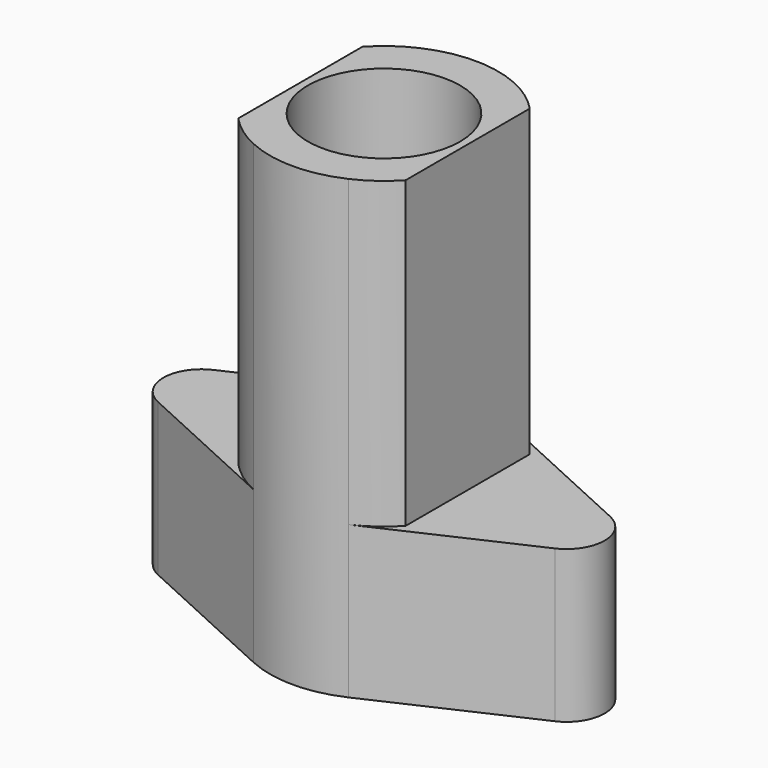
from build123d import *

# Parameters (mm, degrees)
F0_R     = 12.7
F1_DEPTH = 25.4
F2_R     = 12.7
F3_DEPTH = 50.8


with BuildPart() as f1:
    # F0 (on Top) → F1 (new body)
    with BuildSketch(Plane.XY):
        with BuildLine():
            Line((-33.125833, -5.772527), (-7.9375, -17.31758))
            ThreePointArc((-7.9375, -17.31758), (0, -19.05), (7.9375, -17.31758))
            Line((7.9375, -17.31758), (33.125833, -5.772527))
            ThreePointArc((33.125833, -5.772527), (36.83, 0), (33.125833, 5.772527))
            Line((33.125833, 5.772527), (7.9375, 17.31758))
            ThreePointArc((7.9375, 17.31758), (0, 19.05), (-7.9375, 17.31758))
            Line((-7.9375, 17.31758), (-33.125833, 5.772527))
            ThreePointArc((-33.125833, 5.772527), (-36.83, 0), (-33.125833, -5.772527))
        make_face()
        Circle(F0_R, mode=Mode.SUBTRACT)
    extrude(amount=F1_DEPTH)

    # F2 (on face) → F3 (join)
    with BuildSketch(Plane.XY.offset(25.4)):
        with BuildLine():
            Line((13.97, -12.95151), (13.97, 12.95151))
            ThreePointArc((13.97, 12.95151), (11.169167, 15.432181), (7.9375, 17.31758))
            ThreePointArc((7.9375, 17.31758), (0, 19.05), (-7.9375, 17.31758))
            ThreePointArc((-7.9375, 17.31758), (-11.169167, 15.432181), (-13.97, 12.95151))
            Line((-13.97, 12.95151), (-13.97, -12.95151))
            ThreePointArc((-13.97, -12.95151), (-11.169167, -15.432181), (-7.9375, -17.31758))
            ThreePointArc((-7.9375, -17.31758), (0, -19.05), (7.9375, -17.31758))
            ThreePointArc((7.9375, -17.31758), (11.169167, -15.432181), (13.97, -12.95151))
        make_face()
        Circle(F2_R, mode=Mode.SUBTRACT)
    extrude(amount=F3_DEPTH)


solid = f1.part
